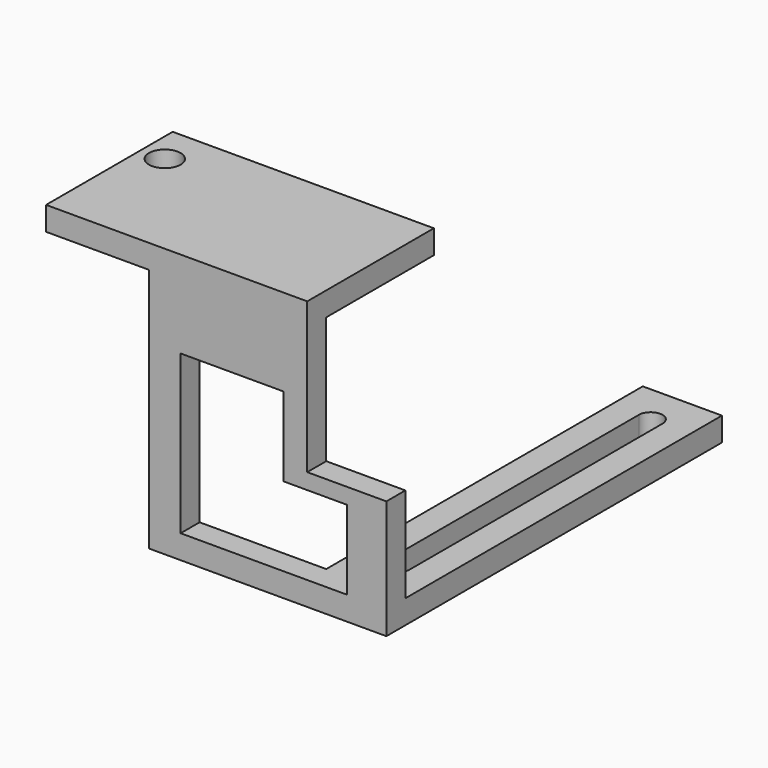
from build123d import *

# Parameters (mm, degrees)
SKETCH_W        = 10
SKETCH_H        = 50
PAD_DEPTH       = 3
SKETCH001_W     = 30
SKETCH001_H     = 15
PAD001_DEPTH    = 3
SKETCH002_W     = 21
SKETCH002_H     = 10
POCKET_DEPTH    = 3
SKETCH003_W     = 20
SKETCH003_H     = 3
PAD002_DEPTH    = 16
SKETCH004_W     = 13
SKETCH004_H     = 10
POCKET001_DEPTH = 3
SKETCH005_W     = 33
SKETCH005_H     = 20
PAD003_DEPTH    = 3
SKETCH006_R     = 2
POCKET002_DEPTH = 3


with BuildPart() as part:
    # Sketch → Pad (new body)
    with BuildSketch(Plane.XY):
        with Locations((5, 25)):
            Rectangle(SKETCH_W, SKETCH_H)
        with BuildLine():
            ThreePointArc((6.5, 45), (5, 46.5), (3.5, 45))
            Line((3.5, 45), (3.5, 5))
            ThreePointArc((3.5, 5), (5, 3.5), (6.5, 5))
            Line((6.5, 45), (6.5, 5))
        make_face(mode=Mode.SUBTRACT)
    extrude(amount=PAD_DEPTH)

    # Sketch001 → Pad001 (new body)
    with BuildSketch(Plane.XZ):
        with Locations((-5, 7.5)):
            Rectangle(SKETCH001_W, SKETCH001_H)
    extrude(amount=PAD001_DEPTH)

    # Sketch002 → Pocket (cut)
    with BuildSketch(Plane.XZ.offset(3)):
        with Locations((-5.5, 8)):
            Rectangle(SKETCH002_W, SKETCH002_H)
    extrude(amount=-POCKET_DEPTH, mode=Mode.SUBTRACT)

    # Sketch003 → Pad002 (new body)
    with BuildSketch(Plane.XY.offset(15)):
        with Locations((-10, -1.5)):
            Rectangle(SKETCH003_W, SKETCH003_H)
    extrude(amount=PAD002_DEPTH)

    # Sketch004 → Pocket001 (cut)
    with BuildSketch(Plane.XZ.offset(3)):
        with Locations((-9.5, 18)):
            Rectangle(SKETCH004_W, SKETCH004_H)
    extrude(amount=-POCKET001_DEPTH, mode=Mode.SUBTRACT)

    # Sketch005 → Pad003 (new body)
    with BuildSketch(Plane.XY.offset(31)):
        with Locations((-16.5, 7)):
            Rectangle(SKETCH005_W, SKETCH005_H)
    extrude(amount=PAD003_DEPTH)

    # Sketch006 → Pocket002 (cut)
    with BuildSketch(Plane.XY.offset(34)):
        with Locations((-30, 12)):
            Circle(SKETCH006_R)
    extrude(amount=-POCKET002_DEPTH, mode=Mode.SUBTRACT)


solid = part.part
